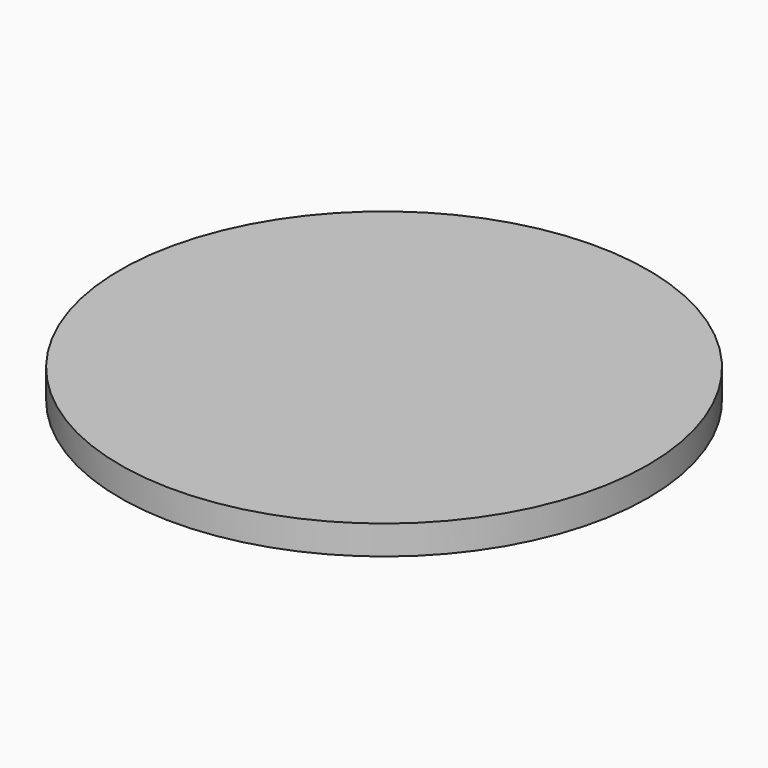
from build123d import *

# Parameters (mm, degrees)
F0_R     = 35.4148548926
F1_DEPTH = 5
F2_R     = 1500
F2_R_2   = 35.4148548926
F3_DEPTH = 165


with BuildPart() as f1:
    # F0 (on Top) → F1 (new body)
    with BuildSketch(Plane.XY):
        Circle(F0_R)
    extrude(amount=F1_DEPTH)

    # F2 (on face) → F3 (join)
    with BuildSketch(Plane.XY.offset(5)):
        Circle(F2_R)
        Circle(F2_R_2, mode=Mode.SUBTRACT)
        Circle(F2_R_2)
    extrude(amount=F3_DEPTH)


solid = f1.part
